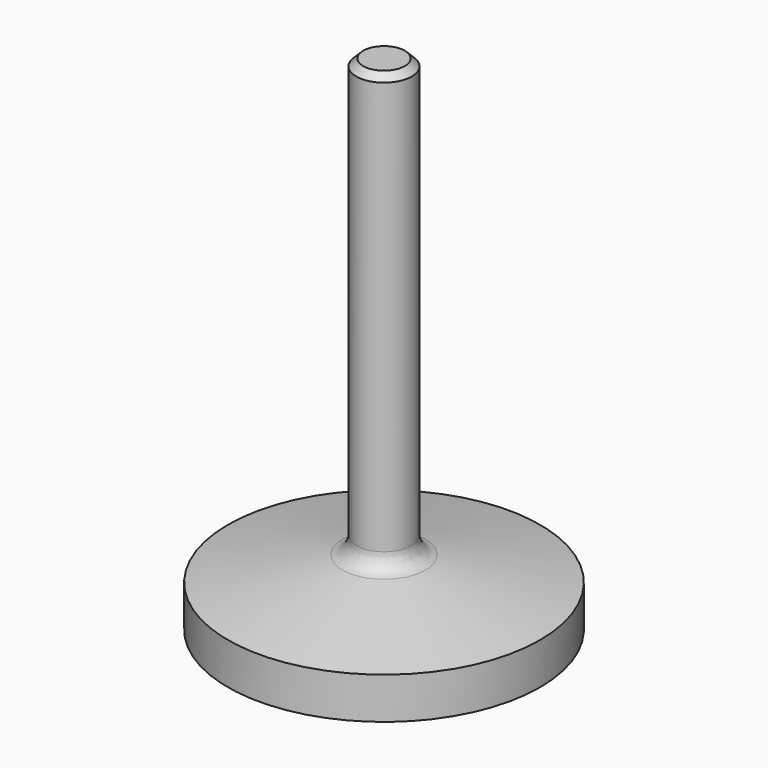
from build123d import *

# Parameters (mm, degrees)
F2_SIZE = 2
F3_R    = 5


with BuildPart() as f1:
    # F0 (on Front) → F1 (revolve)
    with BuildSketch(Plane.XZ):
        Polygon((8, 145), (0, 145), (0, 0), (45, 0), (45, 12), (8, 19.864593), align=None)
    revolve(axis=Axis((0, 0, 72.5), (0, 0, 1)))

    # F2
    f2_edges = [f1.edges().sort_by_distance(p)[0] for p in [
        (-8, 0, 145),
    ]]
    chamfer(f2_edges, length=F2_SIZE)

    # F3
    f3_edges = [f1.edges().sort_by_distance(p)[0] for p in [
        (-8, 0, 19.864593),
    ]]
    fillet(f3_edges, radius=F3_R)


solid = f1.part
